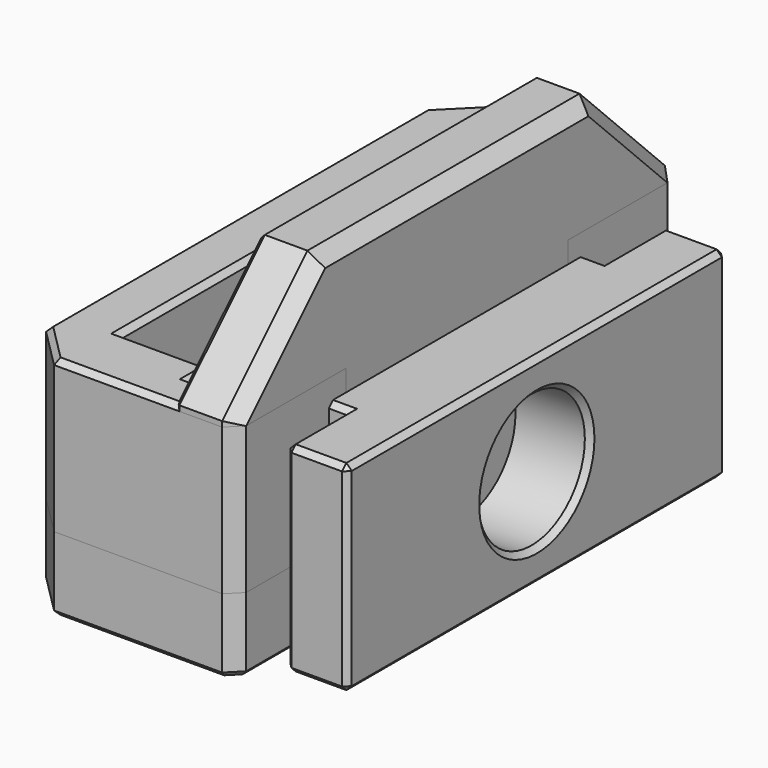
from build123d import *

# Parameters (mm, degrees)
SKETCH_W         = 16.6
SKETCH_H         = 41.5
PAD_DEPTH        = 15
SKETCH001_W      = 41.5
SKETCH001_H      = 10
PAD001_DEPTH     = 4.6
SKETCH002_R      = 4.5
POCKET_DEPTH     = 4.6
SKETCH003_R      = 2.65
POCKET001_DEPTH  = 4
SKETCH004_W      = 16.6
SKETCH004_H      = 41.5
PAD002_DEPTH     = 1.5
CHAMFER_SIZE     = 8
CHAMFER001_SIZE  = 3
CHAMFER002_SIZE  = 1
CHAMFER003_SIZE  = 0.4
EXTRUDE_DEPTH    = 15
SKETCH005_R      = 2.65
POCKET002_DEPTH  = 16.601
CHAMFER004_SIZE  = 0.4
EXTRUDE001_DEPTH = 17
PAD003_DEPTH     = 2
SKETCH007_R      = 2.65
POCKET003_DEPTH  = 16.601
CHAMFER005_SIZE  = 0.4
PAD004_DEPTH     = 15
SKETCH009_R      = 2.15
POCKET004_DEPTH  = 10.601
SKETCH010_R      = 5
POCKET005_DEPTH  = 5.6
CHAMFER006_SIZE  = 0.4
EXTRUDE002_DEPTH = 6
CHAMFER007_SIZE  = 0.4


with BuildPart() as body:
    # Sketch → Pad (new body)
    with BuildSketch(Plane.XY):
        with Locations((-3.7, 0)):
            Rectangle(SKETCH_W, SKETCH_H)
        Polygon((0, 17.75), (0, -17.75), (-1.25, -17.75), (-1.25, -15.75), (-8, -15.75), (-8, 15.75), (-1.25, 15.75), (-1.25, 17.75), align=None, mode=Mode.SUBTRACT)
    extrude(amount=PAD_DEPTH)

    # Sketch001 (on Face2 of Pad) → Pad001 (join)
    with BuildSketch(Plane.YZ.offset(4.6)):
        with Locations((0, 20)):
            Rectangle(SKETCH001_W, SKETCH001_H)
    extrude(amount=-PAD001_DEPTH)

    # Sketch002 (on Face3 of Pad001) → Pocket (cut)
    with BuildSketch(Plane.YZ.offset(4.6)):
        with Locations((0, 9)):
            Circle(SKETCH002_R)
    extrude(amount=-POCKET_DEPTH, mode=Mode.SUBTRACT)

    # Sketch003 (on Face2 of Pocket) → Pocket001 (cut)
    with BuildSketch(Plane(origin=(-12, 0, 0), x_dir=(0, -1, 0), z_dir=(-1, 0, 0))):
        with Locations((0, 9)):
            Circle(SKETCH003_R)
    extrude(amount=-POCKET001_DEPTH, mode=Mode.SUBTRACT)

    # Sketch004 (on Face4 of Pocket001) → Pad002 (join)
    with BuildSketch(Plane(origin=(0, 0, 0), x_dir=(1, 0, 0), z_dir=(0, 0, -1))):
        with Locations((-3.7, 0)):
            Rectangle(SKETCH004_W, SKETCH004_H)
    extrude(amount=-PAD002_DEPTH)

    # Chamfer
    chamfer_edges = [body.edges().sort_by_distance(p)[0] for p in [
        (2.3, -20.75, 25),
        (2.3, 20.75, 25),
    ]]
    chamfer(chamfer_edges, length=CHAMFER_SIZE)

    # Chamfer001
    chamfer001_edges = [body.edges().sort_by_distance(p)[0] for p in [
        (-12, 20.75, 7.5),
        (-12, -20.75, 7.5),
    ]]
    chamfer(chamfer001_edges, length=CHAMFER001_SIZE)

    # Chamfer002
    chamfer002_edges = [body.edges().sort_by_distance(p)[0] for p in [
        (-2.2, 20.75, 0),
        (-10.5, 19.25, 0),
        (4.6, 0, 0),
        (-12, 0, 0),
        (-2.2, -20.75, 0),
        (-10.5, -19.25, 0),
        (4.6, -20.75, 8.5),
        (4.6, -16.75, 21),
        (4.6, 0, 25),
        (4.6, 16.75, 21),
        (4.6, 20.75, 8.5),
    ]]
    chamfer(chamfer002_edges, length=CHAMFER002_SIZE)

    # Chamfer003
    chamfer003_edges = [body.edges().sort_by_distance(p)[0] for p in [
        (0, 20.75, 16),
        (0, 16.75, 21),
        (0, 0, 25),
        (0, -16.75, 21),
        (0, -20.75, 16),
        (-4.5, -20.75, 15),
        (-10.5, -19.25, 15),
        (-12, 0, 15),
        (-10.5, 19.25, 15),
        (-4.5, 20.75, 15),
        (-0.625, 17.75, 15),
        (-1.25, 16.75, 15),
        (-8, 0, 15),
        (-0.625, -17.75, 15),
        (-1.25, -16.75, 15),
        (-4.625, -15.75, 15),
        (0, -4.5, 9),
        (4.6, -4.5, 9),
        (-12, 2.65, 9),
        (-8, 2.65, 9),
    ]]
    chamfer(chamfer003_edges, length=CHAMFER003_SIZE)


with BuildPart() as mid_stopper:
    with BuildSketch(Plane(origin=(-3.7, 0, 0), x_dir=(0, 1, 0), z_dir=(0, 0, 1))):
        Polygon((20.75, -7.3), (20.75, 5.3), (17.75, 8.3), (-17.75, 8.3), (-20.75, 5.3), (-20.75, -7.3), (-19.75, -8.3), (-10, -8.3), (-10, -3.7), (-17.75, -3.7), (-17.75, -2.45), (-15.75, -2.45), (-15.75, 4.3), (15.75, 4.3), (15.75, -2.45), (17.75, -2.45), (17.75, -3.7), (10, -3.7), (10, -8.3), (19.75, -8.3), align=None)
    extrude(amount=EXTRUDE_DEPTH)

    # Sketch005 (on Face3 of BaseFeature) → Pocket002 (cut, through all)
    with BuildSketch(Plane(origin=(-12, 0, 0), x_dir=(0, -1, 0), z_dir=(-1, 0, 0))):
        with Locations((0, 7.5)):
            Circle(SKETCH005_R)
    extrude(amount=-POCKET002_DEPTH, mode=Mode.SUBTRACT)

    # Chamfer004
    chamfer004_edges = [mid_stopper.edges().sort_by_distance(p)[0] for p in [
        (-2.7, 20.75, 15),
        (-10.5, 19.25, 15),
        (-12, 0, 15),
        (-10.5, -19.25, 15),
        (-2.7, -20.75, 15),
        (4.1, -20.25, 15),
        (4.6, -14.875, 15),
        (2.3, -10, 15),
        (0, -13.875, 15),
        (-0.625, -17.75, 15),
        (-1.25, -16.75, 15),
        (-4.625, -15.75, 15),
        (-8, 0, 15),
        (-4.625, 15.75, 15),
        (-1.25, 16.75, 15),
        (-0.625, 17.75, 15),
        (0, 13.875, 15),
        (2.3, 10, 15),
        (4.6, 14.875, 15),
        (4.1, 20.25, 15),
        (-12, 2.65, 7.5),
        (-8, 2.65, 7.5),
        (-2.7, 20.75, 0),
        (-10.5, 19.25, 0),
        (-12, 0, 0),
        (-10.5, -19.25, 0),
        (-2.7, -20.75, 0),
        (4.1, -20.25, 0),
        (4.6, -14.875, 0),
        (2.3, -10, 0),
        (0, -13.875, 0),
        (-0.625, -17.75, 0),
        (-1.25, -16.75, 0),
        (-4.625, -15.75, 0),
        (-8, 0, 0),
        (-4.625, 15.75, 0),
        (-1.25, 16.75, 0),
        (-0.625, 17.75, 0),
        (0, 13.875, 0),
        (2.3, 10, 0),
        (4.6, 14.875, 0),
        (4.1, 20.25, 0),
        (0, 10, 7.5),
        (4.6, 10, 7.5),
        (0, -10, 7.5),
        (4.6, -10, 7.5),
    ]]
    chamfer(chamfer004_edges, length=CHAMFER004_SIZE)


with BuildPart() as end_stopper:
    with BuildSketch(Plane(origin=(-3.7, 0, 0), x_dir=(0, 1, 0), z_dir=(0, 0, 1))):
        Polygon((20.75, -7.3), (20.75, 5.3), (17.75, 8.3), (-17.75, 8.3), (-20.75, 5.3), (-20.75, -7.3), (-19.75, -8.3), (-10, -8.3), (-10, -3.7), (-17.75, -3.7), (-17.75, -2.45), (-15.75, -2.45), (-15.75, 4.3), (15.75, 4.3), (15.75, -2.45), (17.75, -2.45), (17.75, -3.7), (10, -3.7), (10, -8.3), (19.75, -8.3), align=None)
    extrude(amount=EXTRUDE001_DEPTH)

    # Sketch006 (on Face21 of BaseFeature001) → Pad003 (new body)
    with BuildSketch(Plane(origin=(0, 0, 0), x_dir=(1, 0, 0), z_dir=(0, 0, -1))):
        Polygon((4.6, 19.75), (3.6, 20.75), (-9, 20.75), (-12, 17.75), (-12, -17.75), (-9, -20.75), (3.6, -20.75), (4.6, -19.75), align=None)
    extrude(amount=-PAD003_DEPTH)

    # Sketch007 (on Face16 of Pad003) → Pocket003 (cut, through all)
    with BuildSketch(Plane(origin=(-12, 0, 0), x_dir=(0, -1, 0), z_dir=(-1, 0, 0))):
        with Locations((0, 9.5)):
            Circle(SKETCH007_R)
    extrude(amount=-POCKET003_DEPTH, mode=Mode.SUBTRACT)

    # Chamfer005
    chamfer005_edges = [end_stopper.edges().sort_by_distance(p)[0] for p in [
        (-2.7, 20.75, 0),
        (4.1, 20.25, 0),
        (4.6, 0, 0),
        (4.1, -20.25, 0),
        (-2.7, -20.75, 0),
        (-10.5, -19.25, 0),
        (-12, 0, 0),
        (-10.5, 19.25, 0),
        (-2.7, 20.75, 17),
        (-10.5, 19.25, 17),
        (-12, 0, 17),
        (-10.5, -19.25, 17),
        (-2.7, -20.75, 17),
        (4.1, -20.25, 17),
        (4.6, -14.875, 17),
        (2.3, -10, 17),
        (0, -13.875, 17),
        (-0.625, -17.75, 17),
        (-1.25, -16.75, 17),
        (-4.625, -15.75, 17),
        (-8, 0, 17),
        (-4.625, 15.75, 17),
        (-1.25, 16.75, 17),
        (-0.625, 17.75, 17),
        (0, 13.875, 17),
        (2.3, 10, 17),
        (4.6, 14.875, 17),
        (4.1, 20.25, 17),
        (-12, 2.65, 9.5),
        (-8, 2.65, 9.5),
        (4.6, -10, 9.5),
        (0, -10, 9.5),
        (0, 10, 9.5),
        (4.6, 10, 9.5),
        (4.6, 0, 2),
    ]]
    chamfer(chamfer005_edges, length=CHAMFER005_SIZE)


with BuildPart() as front_mid_stopper:
    # Sketch008 → Pad004 (new body)
    with BuildSketch(Plane.XY):
        Polygon((6, 12), (0, 12), (0, -12), (6, -12), (6, -17.75), (10.6, -17.75), (10.6, 17.75), (6, 17.75), align=None)
    extrude(amount=PAD004_DEPTH)

    # Sketch009 (on Face6 of Pad004) → Pocket004 (cut, through all)
    with BuildSketch(Plane.YZ.offset(10.6)):
        with Locations((0, 7.5)):
            Circle(SKETCH009_R)
    extrude(amount=-POCKET004_DEPTH, mode=Mode.SUBTRACT)

    # Sketch010 (on Face11 of Pocket004) → Pocket005 (cut)
    with BuildSketch(Plane.YZ.offset(10.6)):
        with Locations((0, 7.5)):
            Circle(SKETCH010_R)
    extrude(amount=-POCKET005_DEPTH, mode=Mode.SUBTRACT)

    # Chamfer006
    chamfer006_edges = [front_mid_stopper.edges().sort_by_distance(p)[0] for p in [
        (3, 12, 15),
        (0, 0, 15),
        (3, -12, 15),
        (6, -14.875, 15),
        (8.3, -17.75, 15),
        (10.6, 0, 15),
        (8.3, 17.75, 15),
        (6, 14.875, 15),
        (3, 12, 0),
        (0, 0, 0),
        (3, -12, 0),
        (6, -14.875, 0),
        (8.3, -17.75, 0),
        (10.6, 0, 0),
        (8.3, 17.75, 0),
        (6, 14.875, 0),
        (0, 12, 7.5),
        (0, -2.15, 7.5),
        (0, -12, 7.5),
        (6, -17.75, 7.5),
        (10.6, -17.75, 7.5),
        (10.6, 17.75, 7.5),
        (6, 17.75, 7.5),
        (5, -2.15, 7.5),
        (10.6, -5, 7.5),
    ]]
    chamfer(chamfer006_edges, length=CHAMFER006_SIZE)


with BuildPart() as short_spacer:
    with BuildSketch(Plane(origin=(-3.7, 0, 0), x_dir=(0, 1, 0), z_dir=(0, 0, 1))):
        Polygon((20.75, -7.3), (20.75, 5.3), (17.75, 8.3), (-17.75, 8.3), (-20.75, 5.3), (-20.75, -7.3), (-19.75, -8.3), (-10, -8.3), (-10, -3.7), (-17.75, -3.7), (-17.75, -2.45), (-15.75, -2.45), (-15.75, 4.3), (15.75, 4.3), (15.75, -2.45), (17.75, -2.45), (17.75, -3.7), (10, -3.7), (10, -8.3), (19.75, -8.3), align=None)
    extrude(amount=EXTRUDE002_DEPTH)

    # Chamfer007
    chamfer007_edges = [short_spacer.edges().sort_by_distance(p)[0] for p in [
        (-2.7, 20.75, 0),
        (-2.7, 20.75, 6),
        (-10.5, 19.25, 0),
        (-10.5, 19.25, 6),
        (-12, 0, 0),
        (-12, 0, 6),
        (-10.5, -19.25, 0),
        (-10.5, -19.25, 6),
        (-2.7, -20.75, 0),
        (-2.7, -20.75, 6),
        (4.1, -20.25, 0),
        (4.1, -20.25, 6),
        (4.6, -10, 3),
        (4.6, -14.875, 0),
        (4.6, -14.875, 6),
        (0, -10, 3),
        (2.3, -10, 0),
        (2.3, -10, 6),
        (0, -13.875, 0),
        (0, -13.875, 6),
        (-0.625, -17.75, 0),
        (-0.625, -17.75, 6),
        (-1.25, -16.75, 0),
        (-1.25, -16.75, 6),
        (-4.625, -15.75, 0),
        (-4.625, -15.75, 6),
        (-8, 0, 0),
        (-8, 0, 6),
        (-4.625, 15.75, 0),
        (-4.625, 15.75, 6),
        (-1.25, 16.75, 0),
        (-1.25, 16.75, 6),
        (-0.625, 17.75, 0),
        (-0.625, 17.75, 6),
        (0, 10, 3),
        (0, 13.875, 0),
        (0, 13.875, 6),
        (4.6, 10, 3),
        (2.3, 10, 0),
        (2.3, 10, 6),
        (4.6, 14.875, 0),
        (4.6, 14.875, 6),
        (4.1, 20.25, 0),
        (4.1, 20.25, 6),
    ]]
    chamfer(chamfer007_edges, length=CHAMFER007_SIZE)


solid = Compound([body.part, mid_stopper.part, end_stopper.part, front_mid_stopper.part, short_spacer.part])
